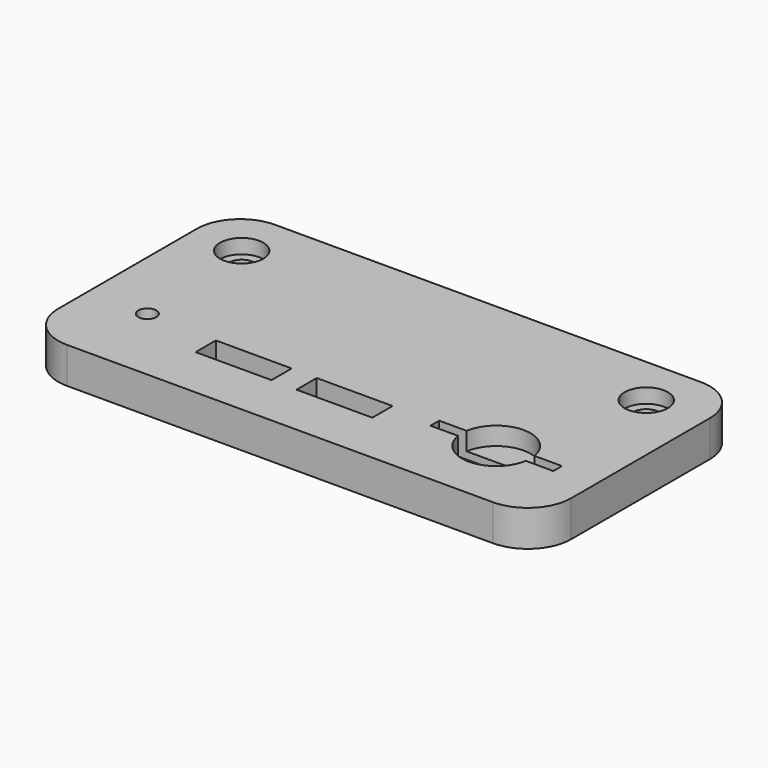
from build123d import *

# Parameters (mm, degrees)
F0_R     = 1.25
F0_W     = 10.5
F0_H     = 3.5
F0_R_2   = 3
F0_R_3   = 1.75
F1_DEPTH = 5
F2_DEPTH = 2
F3_DEPTH = 2.5


with BuildPart() as f1:
    # F0 (on Top) → F1 (new body)
    with BuildSketch(Plane.XY):
        with BuildLine():
            Line((29.3314352036, 17.5223795399), (-29.6685647964, 17.5223795399))
            ThreePointArc((-29.6685647964, 17.5223795399), (-33.9112054836, 15.765020227), (-35.6685647964, 11.5223795399))
            Line((-35.6685647964, 11.5223795399), (-35.6685647964, -12.4776204601))
            ThreePointArc((-35.6685647964, -12.4776204601), (-33.9112054836, -16.7202611472), (-29.6685647964, -18.4776204601))
            Line((-29.6685647964, -18.4776204601), (29.3314352036, -18.4776204601))
            ThreePointArc((29.3314352036, -18.4776204601), (33.5740758907, -16.7202611472), (35.3314352036, -12.4776204601))
            Line((35.3314352036, -12.4776204601), (35.3314352036, 11.5223795399))
            ThreePointArc((35.3314352036, 11.5223795399), (33.5740758907, 15.765020227), (29.3314352036, 17.5223795399))
        make_face()
        with Locations((-27.4148993194, -7.3692747392)):
            Circle(F0_R, mode=Mode.SUBTRACT)
        with Locations((-12.4803110957, -9.3660038244)):
            Rectangle(F0_W, F0_H, mode=Mode.SUBTRACT)
        with Locations((1.526786318, -9.4208057884)):
            Rectangle(F0_W, F0_H, mode=Mode.SUBTRACT)
        with BuildLine():
            Line((12.8467483446, -8.7025752291), (12.8467483446, -7.2025752291))
            Line((12.8467483446, -7.2025752291), (16.6563325848, -7.2025752291))
            ThreePointArc((16.6563325848, -7.2025752291), (21.3467483446, -3.2025752291), (26.0371641044, -7.2025752291))
            Line((26.0371641044, -7.2025752291), (29.8467483446, -7.2025752291))
            Line((29.8467483446, -7.2025752291), (29.8467483446, -8.7025752291))
            Line((29.8467483446, -8.7025752291), (26.0371641044, -8.7025752291))
            ThreePointArc((26.0371641044, -8.7025752291), (21.3467483446, -12.7025752291), (16.6563325848, -8.7025752291))
            Line((16.6563325848, -8.7025752291), (12.8467483446, -8.7025752291))
        make_face(mode=Mode.SUBTRACT)
        with Locations((-28.6685647964, 10.5223795399)):
            Circle(F0_R_2, mode=Mode.SUBTRACT)
        with BuildLine():
            ThreePointArc((30.3314352036, 10.5223795399), (27.3314352036, 7.5223795399), (24.3314352036, 10.5223795399))
            ThreePointArc((24.3314352036, 10.5223795399), (27.3314352036, 13.5223795399), (30.3314352036, 10.5223795399))
        make_face(mode=Mode.SUBTRACT)
        with Locations((-28.6685647964, 10.5223795399)):
            Circle(F0_R_2)
        with Locations((-28.6685647964, 10.5223795399)):
            Circle(F0_R_3, mode=Mode.SUBTRACT)
        with BuildLine():
            Line((26.0371641044, -8.7025752291), (16.6563325848, -8.7025752291))
            ThreePointArc((16.6563325848, -8.7025752291), (21.3467483446, -12.7025752291), (26.0371641044, -8.7025752291))
        make_face()
        with BuildLine():
            ThreePointArc((26.0371641044, -7.2025752291), (21.3467483446, -3.2025752291), (16.6563325848, -7.2025752291))
            Line((16.6563325848, -7.2025752291), (26.0371641044, -7.2025752291))
        make_face()
        with BuildLine():
            ThreePointArc((30.3314352036, 10.5223795399), (27.3314352036, 13.5223795399), (24.3314352036, 10.5223795399))
            ThreePointArc((24.3314352036, 10.5223795399), (27.3314352036, 7.5223795399), (30.3314352036, 10.5223795399))
        make_face()
        with BuildLine():
            ThreePointArc((25.5814352036, 10.5223795399), (27.3314352036, 12.2723795399), (29.0814352036, 10.5223795399))
            ThreePointArc((29.0814352036, 10.5223795399), (27.3314352036, 8.7723795399), (25.5814352036, 10.5223795399))
        make_face(mode=Mode.SUBTRACT)
    extrude(amount=-F1_DEPTH)

    # F0 (on Top) → F2 (cut)
    with BuildSketch(Plane.XY):
        with Locations((-28.6685647964, 10.5223795399)):
            Circle(F0_R_2)
        with Locations((-28.6685647964, 10.5223795399)):
            Circle(F0_R_3, mode=Mode.SUBTRACT)
        with BuildLine():
            ThreePointArc((30.3314352036, 10.5223795399), (27.3314352036, 13.5223795399), (24.3314352036, 10.5223795399))
            ThreePointArc((24.3314352036, 10.5223795399), (27.3314352036, 7.5223795399), (30.3314352036, 10.5223795399))
        make_face()
        with BuildLine():
            ThreePointArc((25.5814352036, 10.5223795399), (27.3314352036, 12.2723795399), (29.0814352036, 10.5223795399))
            ThreePointArc((29.0814352036, 10.5223795399), (27.3314352036, 8.7723795399), (25.5814352036, 10.5223795399))
        make_face(mode=Mode.SUBTRACT)
    extrude(amount=-F2_DEPTH, mode=Mode.SUBTRACT)

    # F0 (on Top) → F3 (cut)
    with BuildSketch(Plane.XY):
        with BuildLine():
            Line((26.0371641044, -8.7025752291), (16.6563325848, -8.7025752291))
            ThreePointArc((16.6563325848, -8.7025752291), (21.3467483446, -12.7025752291), (26.0371641044, -8.7025752291))
        make_face()
        with BuildLine():
            ThreePointArc((26.0371641044, -7.2025752291), (21.3467483446, -3.2025752291), (16.6563325848, -7.2025752291))
            Line((16.6563325848, -7.2025752291), (26.0371641044, -7.2025752291))
        make_face()
    extrude(amount=-F3_DEPTH, mode=Mode.SUBTRACT)


solid = f1.part
